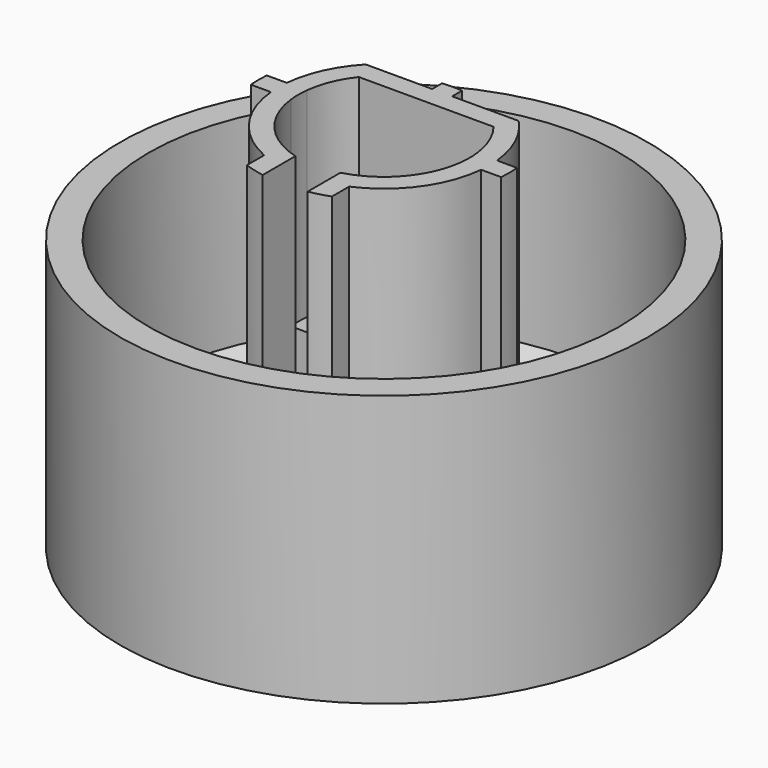
from build123d import *

# Parameters (mm, degrees)
F2_W     = 0.7
F2_H     = 0.7
F3_DEPTH = 13
F4_DEPTH = 6


with BuildPart() as f1:
    # F0 (on Front) → F1 (revolve)
    with BuildSketch(Plane.XZ):
        Polygon((0, 2), (0, 0), (9.25, 0), (9.25, 9.5), (8.25, 9.5), (8.25, 2.5), (7, 2), align=None)
    revolve(axis=Axis((0, 0, -0.2857148442), (0, 0, -1)))

    # F2 (on Top) → F3 (join)
    with BuildSketch(Plane.XY):
        with BuildLine():
            Line((-2.9795133831, -0.35), (-3.6834087473, -0.35))
            ThreePointArc((-3.6834087473, -0.35), (-2.9989376836, -2.1671116191), (-1.4885221007, -3.3873739026))
            Line((-1.4885221007, -3.3873739026), (-1.4885221007, -4.1405678301))
            ThreePointArc((-1.4885221007, -4.1405678301), (-1.1424042215, -4.2491072703), (-0.7885221007, -4.3287680576))
            Line((-0.7885221007, -4.3287680576), (-0.7885221007, -3.6150010922))
            Line((-0.7885221007, -3.6150010922), (-0.7885221007, -2.8945177313))
            ThreePointArc((-0.7885221007, -2.8945177313), (-2.2733599524, -1.9575072227), (-2.9795133831, -0.35))
        make_face()
        with BuildLine():
            Line((-0.35, 1.85), (-0.35, 2.55))
            Line((-0.35, 2.55), (-2.6809513237, 2.55))
            ThreePointArc((-2.6809513237, 2.55), (-3.366937745, 1.5341871534), (-3.6834087473, 0.35))
            Line((-3.6834087473, 0.35), (-2.9795133831, 0.35))
            ThreePointArc((-2.9795133831, 0.35), (-2.7739084983, 1.1425548752), (-2.3616731357, 1.85))
            Line((-2.3616731357, 1.85), (-0.35, 1.85))
        make_face()
        with BuildLine():
            Line((2.6809513237, 2.55), (0.35, 2.55))
            Line((0.35, 2.55), (0.35, 1.85))
            Line((0.35, 1.85), (2.3616731357, 1.85))
            ThreePointArc((2.3616731357, 1.85), (2.7739084983, 1.1425548752), (2.9795133831, 0.35))
            Line((2.9795133831, 0.35), (3.6834087473, 0.35))
            ThreePointArc((3.6834087473, 0.35), (3.366937745, 1.5341871534), (2.6809513237, 2.55))
        make_face()
        with BuildLine():
            ThreePointArc((3.6834087473, -0.35), (3.7, 0), (3.6834087473, 0.35))
            Line((3.6834087473, 0.35), (2.9795133831, 0.35))
            ThreePointArc((2.9795133831, 0.35), (3, 0), (2.9795133831, -0.35))
            Line((2.9795133831, -0.35), (3.6834087473, -0.35))
        make_face()
        with Locations((0, 2.2)):
            Rectangle(F2_W, F2_H)
        with BuildLine():
            Line((-2.9795133831, 0.35), (-3.6834087473, 0.35))
            ThreePointArc((-3.6834087473, 0.35), (-3.7, 0), (-3.6834087473, -0.35))
            Line((-3.6834087473, -0.35), (-2.9795133831, -0.35))
            ThreePointArc((-2.9795133831, -0.35), (-3, 0), (-2.9795133831, 0.35))
        make_face()
        with BuildLine():
            ThreePointArc((1.4885221007, -3.3873739026), (2.9989376836, -2.1671116191), (3.6834087473, -0.35))
            Line((3.6834087473, -0.35), (2.9795133831, -0.35))
            ThreePointArc((2.9795133831, -0.35), (2.2733599524, -1.9575072227), (0.7885221007, -2.8945177313))
            Line((0.7885221007, -2.8945177313), (0.7885221007, -3.6150010922))
            Line((0.7885221007, -3.6150010922), (0.7885221007, -4.3287680576))
            ThreePointArc((0.7885221007, -4.3287680576), (1.1424042215, -4.2491072703), (1.4885221007, -4.1405678301))
            Line((1.4885221007, -4.1405678301), (1.4885221007, -3.3873739026))
        make_face()
        with BuildLine():
            ThreePointArc((-3.6834087473, -0.35), (-3.7, 0), (-3.6834087473, 0.35))
            Line((-3.6834087473, 0.35), (-4.3860574552, 0.35))
            ThreePointArc((-4.3860574552, 0.35), (-4.4, 0), (-4.3860574552, -0.35))
            Line((-4.3860574552, -0.35), (-3.6834087473, -0.35))
        make_face()
        with BuildLine():
            Line((0.35, 2.55), (0.35, 2.9795133831))
            ThreePointArc((0.35, 2.9795133831), (0, 3), (-0.35, 2.9795133831))
            Line((-0.35, 2.9795133831), (-0.35, 2.55))
            Line((-0.35, 2.55), (0.35, 2.55))
        make_face()
        with BuildLine():
            Line((4.3860574552, 0.35), (3.6834087473, 0.35))
            ThreePointArc((3.6834087473, 0.35), (3.7, 0), (3.6834087473, -0.35))
            Line((3.6834087473, -0.35), (4.3860574552, -0.35))
            ThreePointArc((4.3860574552, -0.35), (4.4, 0), (4.3860574552, 0.35))
        make_face()
    extrude(amount=F3_DEPTH)

    # F2 (on Top) → F4 (join)
    with BuildSketch(Plane.XY):
        with BuildLine():
            Line((0.35, 0.35), (0.35, 1.85))
            Line((0.35, 1.85), (-0.35, 1.85))
            Line((-0.35, 1.85), (-0.35, 0.35))
            Line((-0.35, 0.35), (-2.9795133831, 0.35))
            ThreePointArc((-2.9795133831, 0.35), (-3, 0), (-2.9795133831, -0.35))
            Line((-2.9795133831, -0.35), (-0.35, -0.35))
            Line((-0.35, -0.35), (-0.35, -2.9795133831))
            ThreePointArc((-0.35, -2.9795133831), (-0.5708451705, -2.9451885833), (-0.7885221007, -2.8945177313))
            Line((-0.7885221007, -2.8945177313), (-0.7885221007, -3.6150010922))
            ThreePointArc((-0.7885221007, -3.6150010922), (0, -3.7), (0.7885221007, -3.6150010922))
            Line((0.7885221007, -3.6150010922), (0.7885221007, -2.8945177313))
            ThreePointArc((0.7885221007, -2.8945177313), (0.5708451705, -2.9451885833), (0.35, -2.9795133831))
            Line((0.35, -2.9795133831), (0.35, -0.35))
            Line((0.35, -0.35), (2.9795133831, -0.35))
            ThreePointArc((2.9795133831, -0.35), (3, 0), (2.9795133831, 0.35))
            Line((2.9795133831, 0.35), (0.35, 0.35))
        make_face()
    extrude(amount=F4_DEPTH)


solid = f1.part
